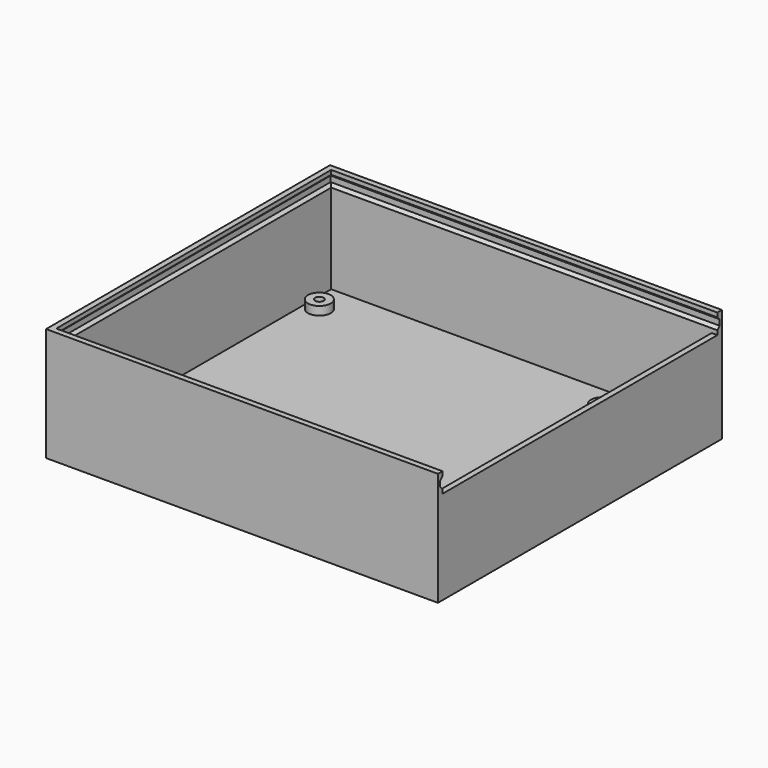
from build123d import *

# Parameters (mm, degrees)
F0_W      = 138
F0_H      = 125
F0_R      = 1.65
F1_DEPTH  = 3
F2_R      = 4
F3_DEPTH  = 1.5
F4_R      = 4
F5_DEPTH  = 3
F6_R      = 1.5
F7_DEPTH  = 6
F8_W      = 138
F8_H      = 125
F8_W_2    = 134
F8_H_2    = 121
F9_DEPTH  = 30
F11_DEPTH = 138
F13_DEPTH = 125


with BuildPart() as f1:
    # F0 (on Top) → F1 (new body)
    with BuildSketch(Plane.XY):
        with Locations((34.017931, -84.321183)):
            Rectangle(F0_W, F0_H)
        with Locations((-17.982069, -96.821183)):
            Circle(F0_R, mode=Mode.SUBTRACT)
        with Locations((86.017931, -96.821183)):
            Circle(F0_R, mode=Mode.SUBTRACT)
    extrude(amount=F1_DEPTH)

    # F2 (on face) → F3 (cut)
    with BuildSketch(Plane.XY.offset(3)):
        with Locations((-17.982069, -96.821183)):
            Circle(F2_R)
        with Locations((86.017931, -96.821183)):
            Circle(F2_R)
    extrude(amount=-F3_DEPTH, mode=Mode.SUBTRACT)

    # F4 (on face) → F5 (join)
    with BuildSketch(Plane.XY.offset(3)):
        with Locations((-21.482069, -127.321183)):
            Circle(F4_R)
        with Locations((-28.182069, -35.021183)):
            Circle(F4_R)
        with Locations((71.517931, -35.021183)):
            Circle(F4_R)
        with Locations((71.517931, -133.621183)):
            Circle(F4_R)
    extrude(amount=F5_DEPTH)

    # F6 (on face) → F7 (cut)
    with BuildSketch(Plane.XY.offset(6)):
        with Locations((-28.182069, -35.021183)):
            Circle(F6_R)
        with Locations((71.517931, -35.021183)):
            Circle(F6_R)
        with Locations((71.517931, -133.621183)):
            Circle(F6_R)
        with Locations((-21.482069, -127.321183)):
            Circle(F6_R)
    extrude(amount=-F7_DEPTH, mode=Mode.SUBTRACT)

    # F8 (on face) → F9 (join)
    with BuildSketch(Plane.XY.offset(3)):
        with Locations((34.017931, -84.321183)):
            Rectangle(F8_W, F8_H)
        with Locations((34.017931, -84.321183)):
            Rectangle(F8_W_2, F8_H_2, mode=Mode.SUBTRACT)
    extrude(amount=F9_DEPTH)

    # F10 (on face) → F11 (join)
    with BuildSketch(Plane.YZ.offset(103.017931)):
        Polygon((-146.821183, 40), (-146.821183, 33), (-144.821183, 33), (-144.821183, 34.5), (-145.821183, 35.5), (-145.821183, 37.5), (-144.821183, 38.5), (-144.821183, 40), align=None)
        Polygon((-23.821183, 40), (-23.821183, 38.5), (-22.821183, 37.5), (-22.821183, 35.5), (-23.821183, 34.5), (-23.821183, 33), (-21.821183, 33), (-21.821183, 40), align=None)
    extrude(amount=-F11_DEPTH)

    # F12 (on face) → F13 (join)
    with BuildSketch(Plane.XZ.offset(146.821183)):
        Polygon((-34.982069, 40), (-34.982069, 33), (-32.982069, 33), (-32.982069, 34.5), (-33.982069, 35.5), (-33.982069, 37.5), (-32.982069, 38.5), (-32.982069, 40), align=None)
    extrude(amount=-F13_DEPTH)


solid = f1.part
